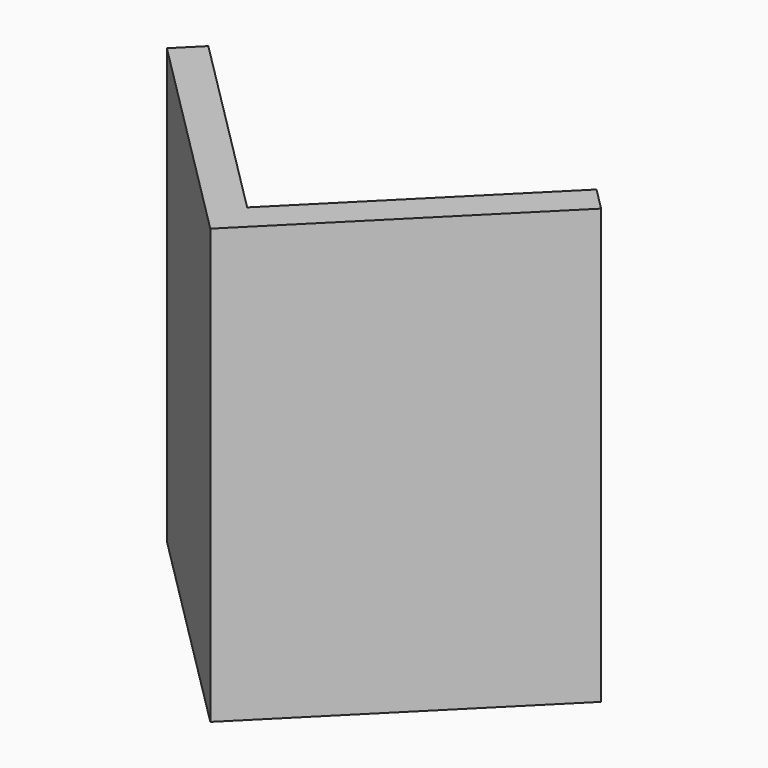
from build123d import *

# Parameters (mm, degrees)
F2_W     = 431.8
F2_H     = 15.24
F3_DEPTH = 15.24
F5_DEPTH = 51.827874
F6_DEPTH = 67.423307
F7_DEPTH = 254


with BuildPart() as f3:
    # F2 (on face) → F3 (new body)
    with BuildSketch(Plane(origin=(0, 0, 0), x_dir=(0.970296, 0, 0.241922), z_dir=(0.241922, 0, -0.970296))):
        with Locations((1.670222, 0)):
            Rectangle(F2_W, F2_H)
    extrude(amount=-F3_DEPTH)

    # F4 (on Top) → F5 (cut, through all)
    with BuildSketch(Plane.XY):
        Polygon((0, -174.718463), (-227.059232, 52.340768), (-254, 25.4), (0, -228.6), (254, 25.4), (227.059232, 52.340768), align=None)
    extrude(amount=-F5_DEPTH, mode=Mode.SUBTRACT)

    # F4 (on Top) → F6 (cut, through all)
    with BuildSketch(Plane.XY):
        Polygon((0, -174.718463), (-227.059232, 52.340768), (-254, 25.4), (0, -228.6), (254, 25.4), (227.059232, 52.340768), align=None)
    extrude(amount=F6_DEPTH, mode=Mode.SUBTRACT)

    # F4 (on Top) → F7 (join, symmetric)
    with BuildSketch(Plane.XY):
        Polygon((0, -174.718463), (-227.059232, 52.340768), (-254, 25.4), (0, -228.6), (254, 25.4), (227.059232, 52.340768), align=None)
    extrude(amount=F7_DEPTH, both=True)


solid = f3.part
